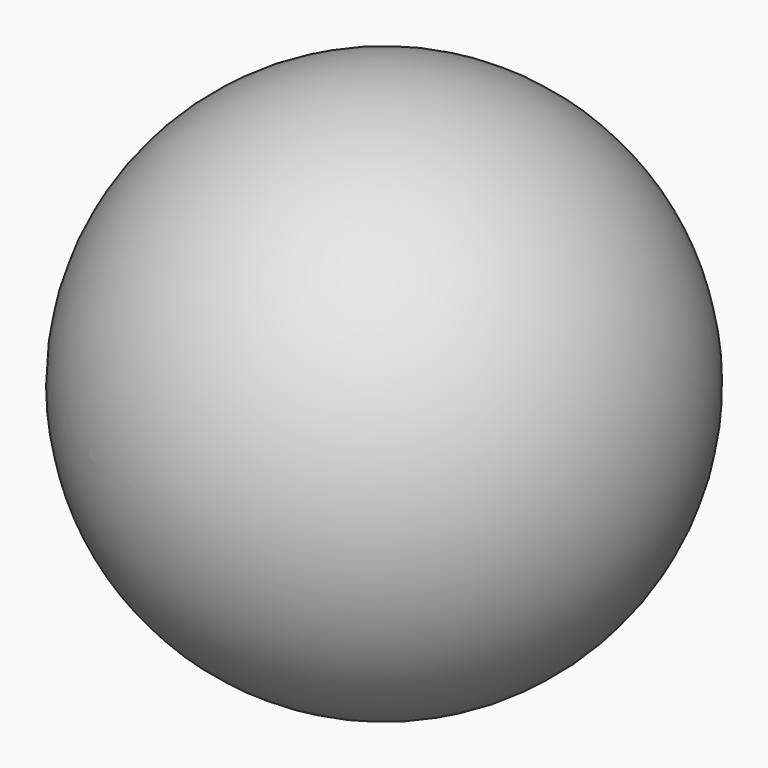
from build123d import *


with BuildPart() as f1:
    # F0 (on Top) → F1 (revolve)
    with BuildSketch(Plane.XY):
        with BuildLine():
            Line((0, 0), (0, 31.75))
            ThreePointArc((0, 31.75), (-31.75, 0), (0, -31.75))
            Line((0, -31.75), (0, 0))
        make_face()
    revolve(axis=Axis((0, 0, 0), (0, -1, 0)))


solid = f1.part
